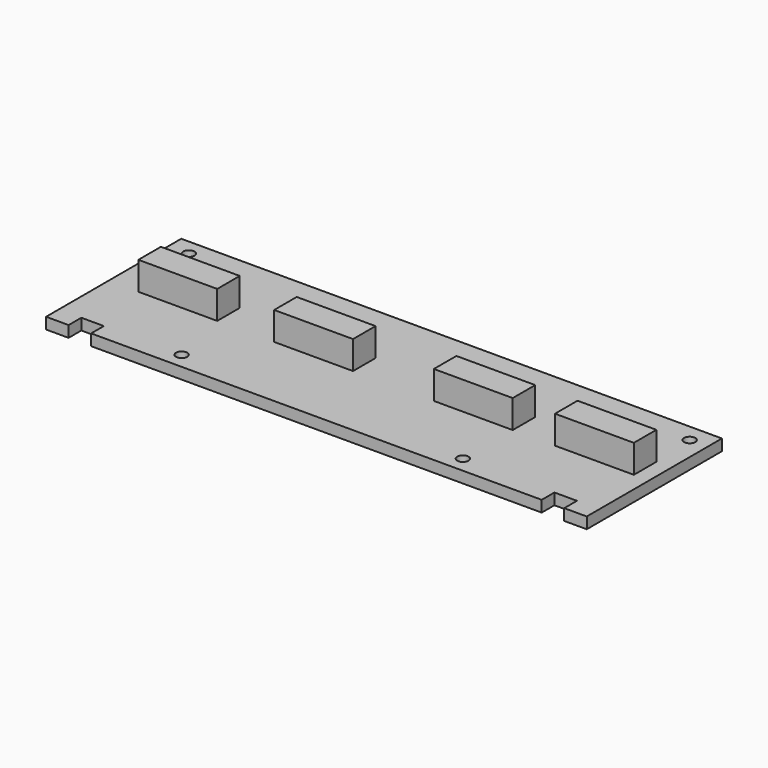
from build123d import *

# Parameters (mm, degrees)
F1_DEPTH = 2
F2_W     = 14
F2_H     = 5
F3_DEPTH = 5
F4_R     = 1
F5_DEPTH = 25


with BuildPart() as f1:
    # F0 (on Top) → F1 (new body)
    with BuildSketch(Plane.XY):
        Polygon((43.908193, 16.15281), (-52.091807, 16.15281), (-52.091807, -13.84719), (-48.091807, -13.84719), (-48.091807, -11.021232), (-44.091807, -11.021232), (-44.091807, -13.84719), (35.908193, -13.84719), (35.908193, -11.021232), (39.908193, -11.021232), (39.908193, -13.84719), (43.908193, -13.84719), align=None)
    extrude(amount=F1_DEPTH)

    # F2 (on face) → F3 (join)
    with BuildSketch(Plane.XY.offset(2)):
        with Locations((-39.782549, 2.5)):
            Rectangle(F2_W, F2_H)
        with Locations((-15.670858, 2.5)):
            Rectangle(F2_W, F2_H)
        with Locations((12.684493, 2.5)):
            Rectangle(F2_W, F2_H)
        with Locations((34.192123, 2.5)):
            Rectangle(F2_W, F2_H)
    extrude(amount=F3_DEPTH)

    # F4 (on face) → F5 (cut)
    with BuildSketch(Plane.XY.offset(2)):
        with Locations((-48.480082, 13.330769)):
            Circle(F4_R)
        with Locations((40.715411, 12.995487)):
            Circle(F4_R)
        with Locations((19.645516, -11.021232)):
            Circle(F4_R)
        with Locations((-30.286502, -11.021232)):
            Circle(F4_R)
    extrude(amount=-F5_DEPTH, mode=Mode.SUBTRACT)


solid = f1.part
